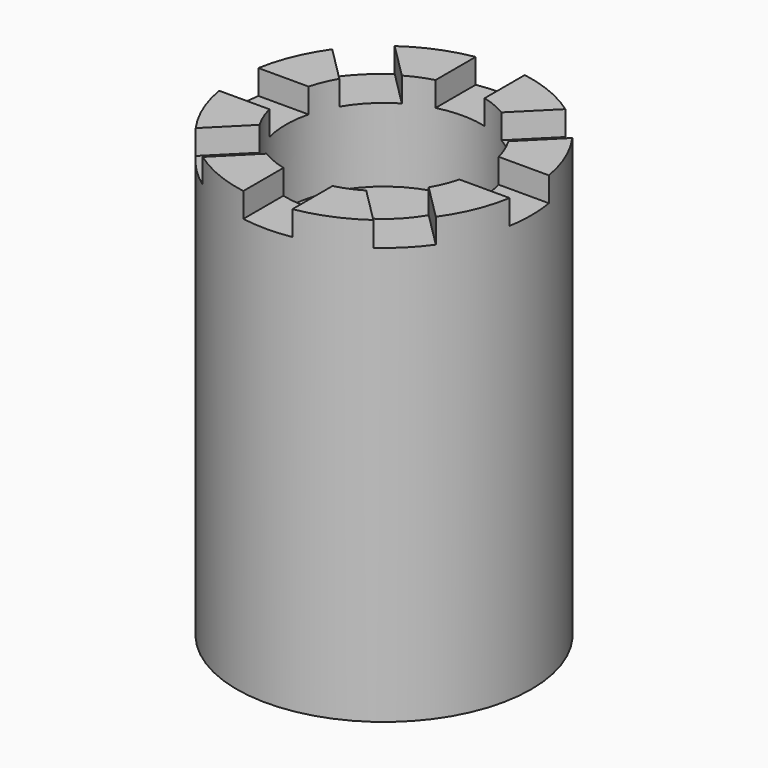
from build123d import *

# Parameters (mm, degrees)
BOX_W             = 15
BOX_H             = 10
BOX_DEPTH         = 10
ARRAY_COUNT       = 8
CYLINDER001_R     = 20
CYLINDER001_DEPTH = 20
CYLINDER_R        = 30
CYLINDER_DEPTH    = 90


with BuildPart() as array:
    # Box → Box (new body)
    with BuildSketch(Plane(origin=(19, -5, 85), x_dir=(1, 0, 0), z_dir=(0, 0, 1))):
        with Locations((7.5, 5)):
            Rectangle(BOX_W, BOX_H)
    extrude(amount=BOX_DEPTH)

    # Array: Array ×8 about axis
    array_axis = Axis((0, 0, 0), (0, 0, 1))


with BuildPart() as array_1:
    add(array.part)
    for i in range(1, ARRAY_COUNT):
        add(array.part.rotate(array_axis, i * 360 / ARRAY_COUNT))


with BuildPart() as obj1:
    # Cylinder001 → Cylinder001 (new body)
    with BuildSketch(Plane.XY.offset(70)):
        Circle(CYLINDER001_R)
    extrude(amount=CYLINDER001_DEPTH)


with BuildPart() as cut001:
    # Cylinder → Cylinder (new body)
    with BuildSketch(Plane.XY):
        Circle(CYLINDER_R)
    extrude(amount=CYLINDER_DEPTH)

    # Cut: cut obj1
    add(obj1.part, mode=Mode.SUBTRACT)

    # Cut001: cut Array
    add(array_1.part, mode=Mode.SUBTRACT)


solid = cut001.part
